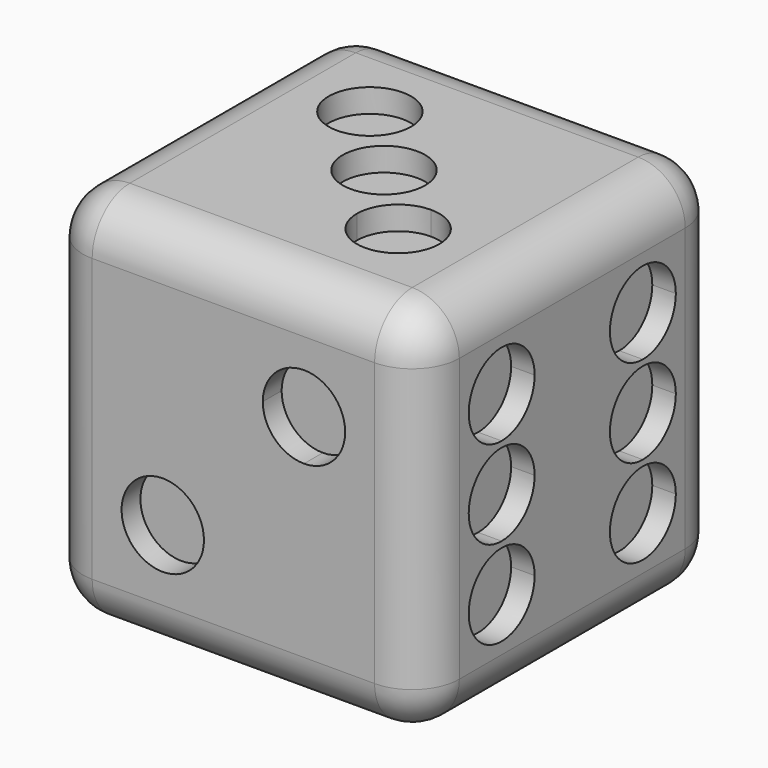
from build123d import *

# Parameters (mm, degrees)
F0_W      = 16
F0_H      = 16
F1_DEPTH  = 16
F2_R      = 2
F4_DEPTH  = 1
F5_R      = 1.75
F6_DEPTH  = 1
F8_DEPTH  = 1
F10_DEPTH = 1
F11_R     = 1.75
F12_DEPTH = 1
F13_R     = 1.75
F14_DEPTH = 1


with BuildPart() as f1:
    # F0 (on Front) → F1 (new body)
    with BuildSketch(Plane.XZ):
        Rectangle(F0_W, F0_H)
    extrude(amount=F1_DEPTH)

    # F2
    f2_edges = [f1.edges().sort_by_distance(p)[0] for p in [
        (0, -16, 8),
        (-8, -8, 8),
        (8, -8, 8),
        (0, 0, 8),
        (0, 0, -8),
        (8, 0, 0),
        (-8, -8, -8),
        (-8, -16, 0),
        (-8, 0, 0),
        (0, -16, -8),
        (8, -16, 0),
        (8, -8, -8),
    ]]
    fillet(f2_edges, radius=F2_R)

    # F3 (on face) → F4 (cut)
    with BuildSketch(Plane.XZ.offset(16)):
        with BuildLine():
            Line((3, 1.25), (3, 3))
            Line((3, 3), (1.25, 3))
            ThreePointArc((1.25, 3), (1.7625631329, 1.7625631329), (3, 1.25))
        make_face()
        with BuildLine():
            Line((-3, -3), (-3, -1.25))
            ThreePointArc((-3, -1.25), (-4.2374368671, -4.2374368671), (-1.25, -3))
            Line((-1.25, -3), (-3, -3))
        make_face()
        with BuildLine():
            ThreePointArc((-1.25, -3), (-1.7625631329, -1.7625631329), (-3, -1.25))
            Line((-3, -1.25), (-3, -3))
            Line((-3, -3), (-1.25, -3))
        make_face()
        with BuildLine():
            Line((1.25, 3), (3, 3))
            Line((3, 3), (3, 1.25))
            ThreePointArc((3, 1.25), (4.2374368671, 1.7625631329), (4.75, 3))
            ThreePointArc((4.75, 3), (3, 4.75), (1.25, 3))
        make_face()
    extrude(amount=-F4_DEPTH, mode=Mode.SUBTRACT)

    # F5 (on face) → F6 (cut)
    with BuildSketch(Plane.XY.offset(8)):
        with BuildLine():
            Line((-3, -5), (-1.25, -5))
            ThreePointArc((-1.25, -5), (-4.2374368671, -3.7625631329), (-3, -6.75))
            Line((-3, -6.75), (-3, -5))
        make_face()
        with BuildLine():
            ThreePointArc((-3, -6.75), (-1.7625631329, -6.2374368671), (-1.25, -5))
            Line((-1.25, -5), (-3, -5))
            Line((-3, -5), (-3, -6.75))
        make_face()
        with BuildLine():
            Line((3, -11), (3, -9.25))
            ThreePointArc((3, -9.25), (1.7625631329, -9.7625631329), (1.25, -11))
            Line((1.25, -11), (3, -11))
        make_face()
        with BuildLine():
            ThreePointArc((4.75, -11), (4.2374368671, -9.7625631329), (3, -9.25))
            Line((3, -9.25), (3, -11))
            Line((3, -11), (1.25, -11))
            ThreePointArc((1.25, -11), (3, -12.75), (4.75, -11))
        make_face()
        with Locations((0, -8)):
            Circle(F5_R)
    extrude(amount=-F6_DEPTH, mode=Mode.SUBTRACT)

    # F7 (on face) → F8 (cut)
    with BuildSketch(Plane.YZ.offset(8)):
        with BuildLine():
            Line((-4.25, 3.75), (-6, 3.75))
            ThreePointArc((-6, 3.75), (-5.4874368671, 2.5125631329), (-4.25, 2))
            Line((-4.25, 2), (-4.25, 3.75))
        make_face()
        with BuildLine():
            ThreePointArc((-2.5, 3.75), (-4.25, 5.5), (-6, 3.75))
            Line((-6, 3.75), (-4.25, 3.75))
            Line((-4.25, 3.75), (-4.25, 2))
            ThreePointArc((-4.25, 2), (-3.0125631329, 2.5125631329), (-2.5, 3.75))
        make_face()
        with BuildLine():
            Line((-11.75, 3.75), (-10, 3.75))
            ThreePointArc((-10, 3.75), (-12.9874368671, 4.9874368671), (-11.75, 2))
            Line((-11.75, 2), (-11.75, 3.75))
        make_face()
        with BuildLine():
            ThreePointArc((-11.75, 2), (-10.5125631329, 2.5125631329), (-10, 3.75))
            Line((-10, 3.75), (-11.75, 3.75))
            Line((-11.75, 3.75), (-11.75, 2))
        make_face()
        with BuildLine():
            Line((-4.25, -3.75), (-4.25, -2))
            ThreePointArc((-4.25, -2), (-5.4874368671, -2.5125631329), (-6, -3.75))
            Line((-6, -3.75), (-4.25, -3.75))
        make_face()
        with BuildLine():
            ThreePointArc((-2.5, -3.75), (-3.0125631329, -2.5125631329), (-4.25, -2))
            Line((-4.25, -2), (-4.25, -3.75))
            Line((-4.25, -3.75), (-6, -3.75))
            ThreePointArc((-6, -3.75), (-4.25, -5.5), (-2.5, -3.75))
        make_face()
        with BuildLine():
            ThreePointArc((-10, -3.75), (-10.5125631329, -2.5125631329), (-11.75, -2))
            Line((-11.75, -2), (-11.75, -3.75))
            Line((-11.75, -3.75), (-10, -3.75))
        make_face()
        with BuildLine():
            Line((-11.75, -3.75), (-11.75, -2))
            ThreePointArc((-11.75, -2), (-12.9874368671, -4.9874368671), (-10, -3.75))
            Line((-10, -3.75), (-11.75, -3.75))
        make_face()
        with BuildLine():
            Line((-4.25, -1.75), (-4.25, 1.75))
            ThreePointArc((-4.25, 1.75), (-6, 0), (-4.25, -1.75))
        make_face()
        with BuildLine():
            ThreePointArc((-2.5, 0), (-3.0125631329, 1.2374368671), (-4.25, 1.75))
            Line((-4.25, 1.75), (-4.25, -1.75))
            ThreePointArc((-4.25, -1.75), (-3.0125631329, -1.2374368671), (-2.5, 0))
        make_face()
        with BuildLine():
            Line((-11.75, -1.75), (-11.75, 1.75))
            ThreePointArc((-11.75, 1.75), (-13.5, 0), (-11.75, -1.75))
        make_face()
        with BuildLine():
            ThreePointArc((-10, 0), (-10.5125631329, 1.2374368671), (-11.75, 1.75))
            Line((-11.75, 1.75), (-11.75, -1.75))
            ThreePointArc((-11.75, -1.75), (-10.5125631329, -1.2374368671), (-10, 0))
        make_face()
    extrude(amount=-F8_DEPTH, mode=Mode.SUBTRACT)

    # F9 (on face) → F10 (cut)
    with BuildSketch(Plane(origin=(0, 0, -8), x_dir=(1, 0, 0), z_dir=(0, 0, -1))):
        with BuildLine():
            Line((3, 11), (1.25, 11))
            ThreePointArc((1.25, 11), (1.7625631329, 9.7625631329), (3, 9.25))
            Line((3, 9.25), (3, 11))
        make_face()
        with BuildLine():
            ThreePointArc((4.75, 11), (3, 12.75), (1.25, 11))
            Line((1.25, 11), (3, 11))
            Line((3, 11), (3, 9.25))
            ThreePointArc((3, 9.25), (4.2374368671, 9.7625631329), (4.75, 11))
        make_face()
        with BuildLine():
            Line((-3, 11), (-1.25, 11))
            ThreePointArc((-1.25, 11), (-4.2374368671, 12.2374368671), (-3, 9.25))
            Line((-3, 9.25), (-3, 11))
        make_face()
        with BuildLine():
            ThreePointArc((-3, 9.25), (-1.7625631329, 9.7625631329), (-1.25, 11))
            Line((-1.25, 11), (-3, 11))
            Line((-3, 11), (-3, 9.25))
        make_face()
        with BuildLine():
            Line((3, 5), (3, 6.75))
            ThreePointArc((3, 6.75), (1.7625631329, 6.2374368671), (1.25, 5))
            Line((1.25, 5), (3, 5))
        make_face()
        with BuildLine():
            ThreePointArc((4.75, 5), (4.2374368671, 6.2374368671), (3, 6.75))
            Line((3, 6.75), (3, 5))
            Line((3, 5), (1.25, 5))
            ThreePointArc((1.25, 5), (3, 3.25), (4.75, 5))
        make_face()
        with BuildLine():
            ThreePointArc((-1.25, 5), (-1.7625631329, 6.2374368671), (-3, 6.75))
            Line((-3, 6.75), (-3, 5))
            Line((-3, 5), (-1.25, 5))
        make_face()
        with BuildLine():
            Line((-3, 5), (-3, 6.75))
            ThreePointArc((-3, 6.75), (-4.2374368671, 3.7625631329), (-1.25, 5))
            Line((-1.25, 5), (-3, 5))
        make_face()
    extrude(amount=-F10_DEPTH, mode=Mode.SUBTRACT)

    # F11 (on face) → F12 (cut)
    with BuildSketch(Plane(origin=(-8, 0, 0), x_dir=(0, -1, 0), z_dir=(-1, 0, 0))):
        with Locations((8, 0)):
            Circle(F11_R)
    extrude(amount=-F12_DEPTH, mode=Mode.SUBTRACT)

    # F13 (on face) → F14 (cut)
    with BuildSketch(Plane(origin=(0, 0, 0), x_dir=(-1, 0, 0), z_dir=(0, 1, 0))):
        with BuildLine():
            Line((3, 3), (1.25, 3))
            ThreePointArc((1.25, 3), (1.7625631329, 1.7625631329), (3, 1.25))
            Line((3, 1.25), (3, 3))
        make_face()
        with BuildLine():
            ThreePointArc((4.75, 3), (3, 4.75), (1.25, 3))
            Line((1.25, 3), (3, 3))
            Line((3, 3), (3, 1.25))
            ThreePointArc((3, 1.25), (4.2374368671, 1.7625631329), (4.75, 3))
        make_face()
        with BuildLine():
            Line((-3, 3), (-1.25, 3))
            ThreePointArc((-1.25, 3), (-4.2374368671, 4.2374368671), (-3, 1.25))
            Line((-3, 1.25), (-3, 3))
        make_face()
        with BuildLine():
            ThreePointArc((-3, 1.25), (-1.7625631329, 1.7625631329), (-1.25, 3))
            Line((-1.25, 3), (-3, 3))
            Line((-3, 3), (-3, 1.25))
        make_face()
        with BuildLine():
            Line((3, -3), (3, -1.25))
            ThreePointArc((3, -1.25), (1.7625631329, -1.7625631329), (1.25, -3))
            Line((1.25, -3), (3, -3))
        make_face()
        with BuildLine():
            ThreePointArc((4.75, -3), (4.2374368671, -1.7625631329), (3, -1.25))
            Line((3, -1.25), (3, -3))
            Line((3, -3), (1.25, -3))
            ThreePointArc((1.25, -3), (3, -4.75), (4.75, -3))
        make_face()
        with BuildLine():
            ThreePointArc((-1.25, -3), (-1.7625631329, -1.7625631329), (-3, -1.25))
            Line((-3, -1.25), (-3, -3))
            Line((-3, -3), (-1.25, -3))
        make_face()
        with BuildLine():
            Line((-3, -3), (-3, -1.25))
            ThreePointArc((-3, -1.25), (-4.2374368671, -4.2374368671), (-1.25, -3))
            Line((-1.25, -3), (-3, -3))
        make_face()
        Circle(F13_R)
    extrude(amount=-F14_DEPTH, mode=Mode.SUBTRACT)


solid = f1.part
